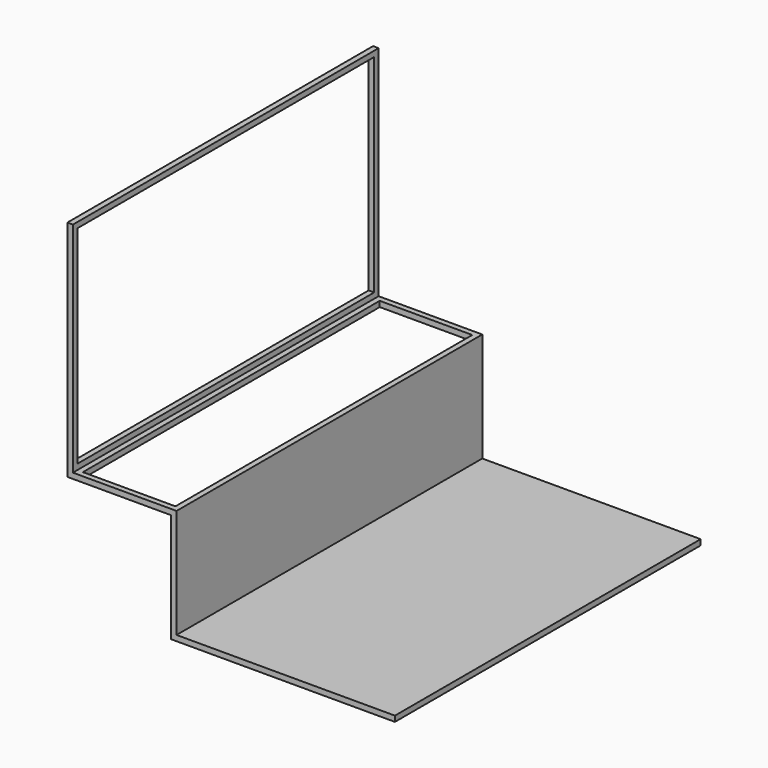
from build123d import *

# Parameters (mm, degrees)
F0_W     = 25.4
F0_H     = 25.4
F0_H_2   = 1000
F1_DEPTH = 1750
F2_W     = 423.8
F2_H     = 1699.2
F3_DEPTH = 25.4
F4_W     = 1699.2
F4_H     = 949.2
F5_DEPTH = 25.4


with BuildPart() as f1:
    # F0 (on Front) → F1 (new body)
    with BuildSketch(Plane.XZ):
        Polygon((1000, 0), (0, 0), (0, 500), (-474.6, 500), (-474.6, 474.6), (-25.4, 474.6), (-25.4, -25.4), (1000, -25.4), align=None)
        with Locations((-487.3, 487.3)):
            Rectangle(F0_W, F0_H)
        with Locations((-487.3, 1000)):
            Rectangle(F0_W, F0_H_2)
    extrude(amount=F1_DEPTH)

    # F2 (on face) → F3 (cut)
    with BuildSketch(Plane.XY.offset(500)):
        with Locations((-237.3, -875)):
            Rectangle(F2_W, F2_H)
    extrude(amount=-F3_DEPTH, mode=Mode.SUBTRACT)

    # F4 (on face) → F5 (cut)
    with BuildSketch(Plane.YZ.offset(-474.6)):
        with Locations((-875, 1000)):
            Rectangle(F4_W, F4_H)
    extrude(amount=-F5_DEPTH, mode=Mode.SUBTRACT)


solid = f1.part
